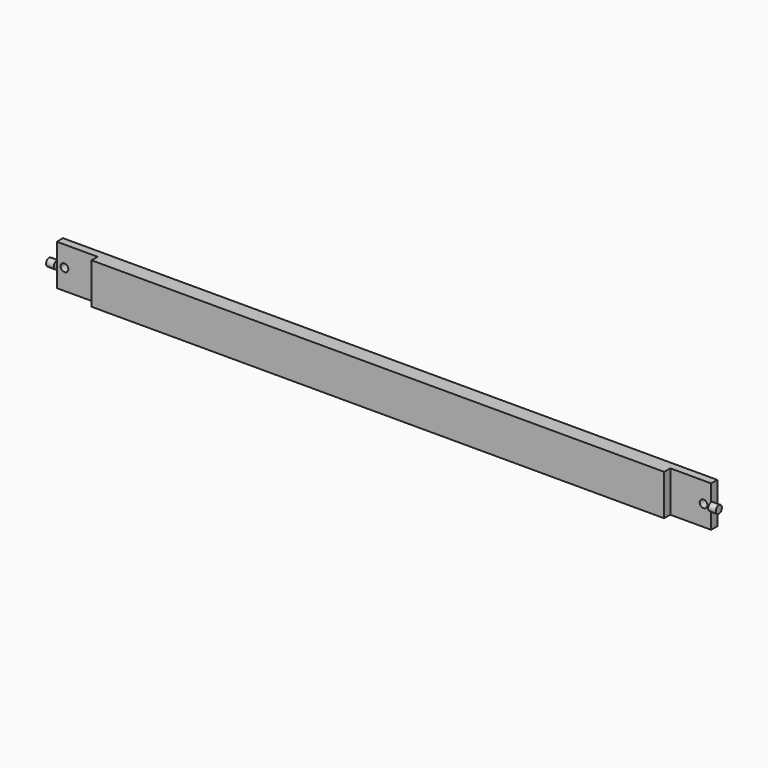
from build123d import *

# Parameters (mm, degrees)
F1_DEPTH = 50.8
F3_R     = 4.7625
F4_DEPTH = 9.525
F6_R     = 4.7625
F7_DEPTH = 9.525
F8_R     = 4.7625
F9_DEPTH = 25.4


with BuildPart() as f1:
    # F0 (on Top) → F1 (new body)
    with BuildSketch(Plane.XY):
        Polygon((-355.6, 0), (-355.6, -9.525), (355.6, -9.525), (355.6, 0), (406.4, 0), (406.4, 9.525), (-406.4, 9.525), (-406.4, 0), align=None)
    extrude(amount=F1_DEPTH)

    # F3 (on offset) → F4 (join)
    with BuildSketch(Plane.YZ.offset(406.4)):
        with Locations((0, 25.4)):
            Circle(F3_R)
    extrude(amount=F4_DEPTH)

    # F6 (on offset) → F7 (join)
    with BuildSketch(Plane.YZ.offset(-406.4)):
        with Locations((0, 25.418339)):
            Circle(F6_R)
    extrude(amount=-F7_DEPTH)

    # F8 (on Front) → F9 (cut)
    with BuildSketch(Plane.XZ):
        with Locations((-396.875, 25.4)):
            Circle(F8_R)
        with Locations((396.875, 25.4)):
            Circle(F8_R)
    extrude(amount=-F9_DEPTH, mode=Mode.SUBTRACT)


solid = f1.part
